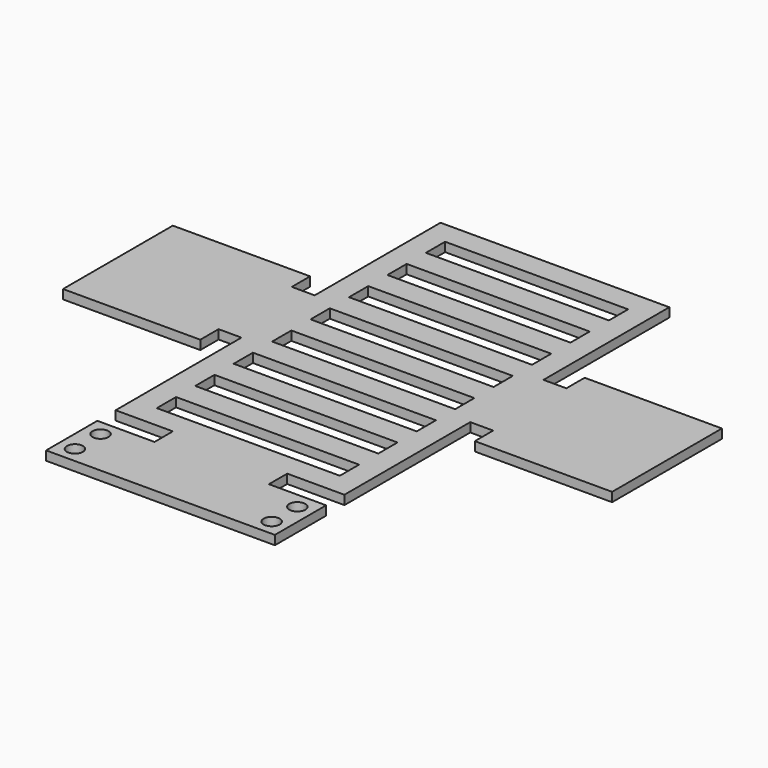
from build123d import *

# Parameters (mm, degrees)
F0_R     = 1.75
F1_DEPTH = 2


with BuildPart() as f1:
    # F0 (on Top) → F1 (new body)
    with BuildSketch(Plane.XY):
        Polygon((25, 0), (12.5, 0), (12.5, -5), (0, -5), (0, -19), (25, -19), (50, -19), (50, -5), (37.5, -5), (37.5, 0), align=None)
        with Locations((3.5, -15.5)):
            Circle(F0_R, mode=Mode.SUBTRACT)
        with Locations((3.5, -8.5)):
            Circle(F0_R, mode=Mode.SUBTRACT)
        with Locations((46.5, -15.5)):
            Circle(F0_R, mode=Mode.SUBTRACT)
        with Locations((46.5, -8.5)):
            Circle(F0_R, mode=Mode.SUBTRACT)
        Polygon((0, 29.375), (0, 0), (12.5, 0), (25, 0), (37.5, 0), (50, 0), (50, 29.375), (50, 34.375), (55, 34.375), (55, 29.375), (85, 29.375), (85, 59.375), (55, 59.375), (55, 54.375), (50, 54.375), (50, 59.375), (50, 88.75), (25, 88.75), (0, 88.75), (0, 59.375), (0, 54.375), (-5, 54.375), (-5, 59.375), (-35, 59.375), (-35, 29.375), (-5, 29.375), (-5, 34.375), (0, 34.375), align=None)
        Polygon((25, 5), (5, 5), (5, 10.25), (25, 10.25), (45, 10.25), (45, 5), align=None, mode=Mode.SUBTRACT)
        Polygon((25, 15.5), (5, 15.5), (5, 20.75), (25, 20.75), (45, 20.75), (45, 15.5), align=None, mode=Mode.SUBTRACT)
        Polygon((25, 26), (5, 26), (5, 31.25), (25, 31.25), (45, 31.25), (45, 26), align=None, mode=Mode.SUBTRACT)
        Polygon((25, 36.5), (5, 36.5), (5, 41.75), (25, 41.75), (45, 41.75), (45, 36.5), align=None, mode=Mode.SUBTRACT)
        Polygon((25, 47), (5, 47), (5, 52.25), (25, 52.25), (45, 52.25), (45, 47), align=None, mode=Mode.SUBTRACT)
        Polygon((25, 57.5), (5, 57.5), (5, 62.75), (25, 62.75), (45, 62.75), (45, 57.5), align=None, mode=Mode.SUBTRACT)
        Polygon((25, 68), (5, 68), (5, 73.25), (25, 73.25), (45, 73.25), (45, 68), align=None, mode=Mode.SUBTRACT)
        Polygon((5, 83.75), (25, 83.75), (45, 83.75), (45, 78.5), (25, 78.5), (5, 78.5), align=None, mode=Mode.SUBTRACT)
    extrude(amount=F1_DEPTH)


solid = f1.part
